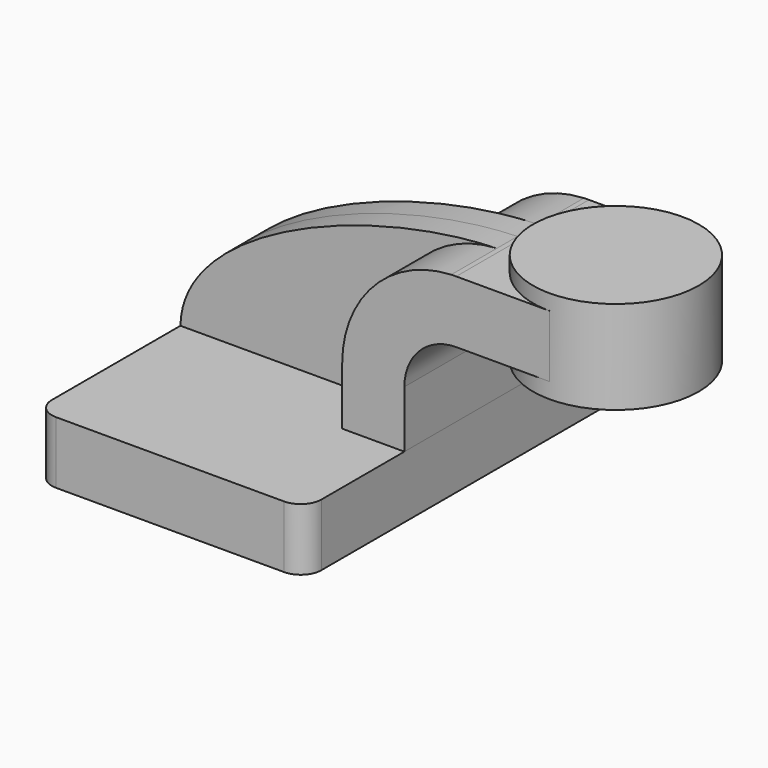
from build123d import *

# Parameters (mm, degrees)
F1_DEPTH = 63.5
F0_W     = 25.4
F0_H     = 19.05
F2_DEPTH = 25.4
F3_DEPTH = 7.9375
F5_R     = 6.35


with BuildPart() as f1:
    # F0 (on Front) → F1 (new body, symmetric)
    with BuildSketch(Plane.XZ):
        Polygon((-41.275, 9.525), (-41.275, -9.525), (41.275, -9.525), (41.275, 9.525), (22.225, 9.525), align=None)
    extrude(amount=F1_DEPTH, both=True)

    # F5
    f5_edges = [f1.edges().sort_by_distance(p)[0] for p in [
        (41.275, -63.5, 0),
        (-41.275, -63.5, 0),
        (-41.275, 63.5, 0),
        (41.275, 63.5, 0),
    ]]
    fillet(f5_edges, radius=F5_R)


with BuildPart() as f2:
    # F0 (on Front) → F2 (new body, symmetric)
    with BuildSketch(Plane.XZ):
        with BuildLine():
            Line((22.225, 9.525), (41.275, 9.525))
            Line((41.275, 9.525), (41.275, 27.0002))
            ThreePointArc((41.275, 27.0002), (45.9246798487, 38.2255201513), (57.15, 42.8752))
            Line((57.15, 42.8752), (60.325, 42.8752))
            Line((60.325, 42.8752), (60.325, 61.9252))
            Line((60.325, 61.9252), (57.15, 61.9252))
            add(Edge.make_bspline(
                [(55.6137149679, 61.8913944952), (56.1284696287, 61.9061846013), (56.6406146507, 61.9174638983), (57.15, 61.9252)],
                knots=[110.0962575469, 110.0962575469, 110.0962575469, 110.0962575469, 111.5045361635, 111.5045361635, 111.5045361635, 111.5045361635], degree=3))
            ThreePointArc((55.6137149679, 61.8913944952), (31.9169821489, 51.1466373175), (22.225, 27.0002))
            Line((22.225, 27.0002), (22.225, 9.525))
        make_face()
        with Locations((73.025, 52.4002)):
            Rectangle(F0_W, F0_H)
    extrude(amount=F2_DEPTH, both=True)


with BuildPart() as f3:
    # F0 (on Front) → F3 (new body, symmetric)
    with BuildSketch(Plane.XZ):
        with BuildLine():
            add(Edge.make_bspline(
                [(-41.275, 9.525), (-40.8207025308, 38.1215714255), (15.371279249, 60.7351351358), (55.6137149679, 61.8913944952)],
                knots=[0, 0, 0, 0, 110.0962575469, 110.0962575469, 110.0962575469, 110.0962575469], degree=3))
            Line((-41.275, 9.525), (22.225, 9.525))
            Line((22.225, 9.525), (22.225, 27.0002))
            ThreePointArc((22.225, 27.0002), (31.9169821489, 51.1466373175), (55.6137149679, 61.8913944952))
        make_face()
    extrude(amount=F3_DEPTH, both=True)


with BuildPart() as f4:
    # F0 (on Front) → F4 (revolve)
    with BuildSketch(Plane.XZ):
        Polygon((85.725, 66.675), (85.725, 61.9252), (85.725, 42.8752), (85.725, 38.1), (111.125, 38.1), (111.125, 66.675), align=None)
    revolve(axis=Axis((85.725, 0, 52.3875), (0, 0, 1)))


solid = Compound([f1.part, f2.part, f3.part, f4.part])
